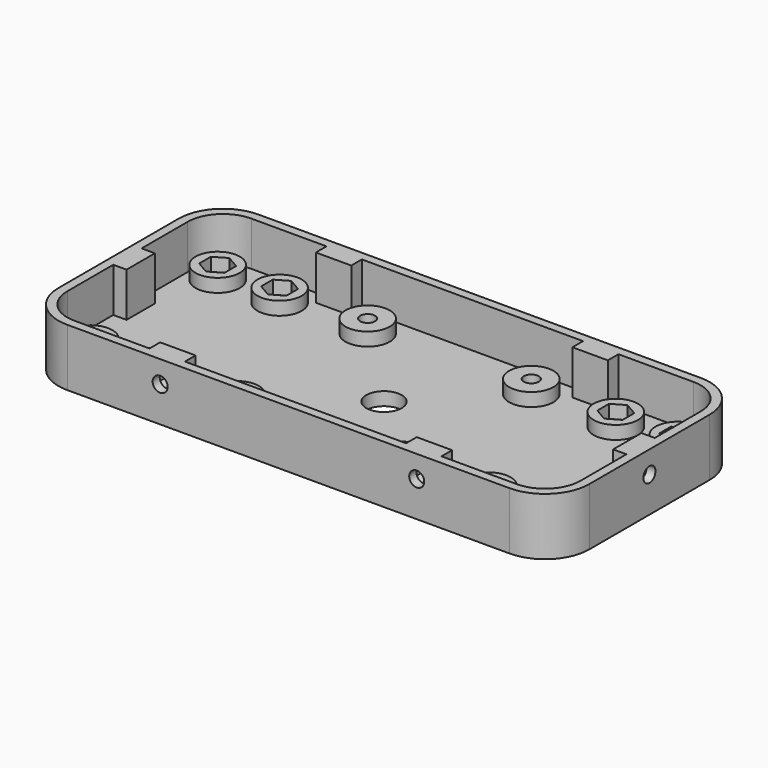
from build123d import *

# Parameters (mm, degrees)
PAD_DEPTH       = 3
PAD001_DEPTH    = 10
SKETCH002_R     = 5
PAD002_DEPTH    = 3
POCKET_DEPTH    = 3
SKETCH004_R     = 1.7
POCKET001_DEPTH = 3
SKETCH005_R     = 5
PAD003_DEPTH    = 3
SKETCH006_R     = 1.7
POCKET002_DEPTH = 2.8
POCKET003_DEPTH = 3
SKETCH008_R     = 4
POCKET004_DEPTH = 3
POCKET005_DEPTH = 3
SKETCH010_R     = 1.7
POCKET006_DEPTH = 3
POCKET007_DEPTH = 3
SKETCH012_R     = 1.7
POCKET008_DEPTH = 3
POCKET009_DEPTH = 3
SKETCH014_R     = 1.7
POCKET010_DEPTH = 3
POCKET011_DEPTH = 3
SKETCH016_R     = 1.7
POCKET012_DEPTH = 3


with BuildPart() as part:
    # Sketch → Pad (new body)
    with BuildSketch(Plane.XY):
        with BuildLine():
            ThreePointArc((0, 10), (2.928932, 2.928932), (10, 0))
            Line((110, 0), (10, 0))
            ThreePointArc((110, 0), (117.071068, 2.928932), (120, 10))
            Line((120, 44), (120, 10))
            ThreePointArc((120, 44), (117.071068, 51.071068), (110, 54))
            Line((10, 54), (110, 54))
            ThreePointArc((10, 54), (2.928932, 51.071068), (0, 44))
            Line((0, 10), (0, 44))
        make_face()
    extrude(amount=PAD_DEPTH)

    # Sketch001 → Pad001 (new body)
    with BuildSketch(Plane.XY.offset(3)):
        with BuildLine():
            ThreePointArc((0, 10), (2.928932, 2.928932), (10, 0))
            Line((110, 0), (10, 0))
            ThreePointArc((110, 0), (117.071068, 2.928932), (120, 10))
            Line((120, 44), (120, 10))
            ThreePointArc((120, 44), (117.071068, 51.071068), (110, 54))
            Line((10, 54), (110, 54))
            ThreePointArc((10, 54), (2.928932, 51.071068), (0, 44))
            Line((0, 10), (0, 44))
        make_face()
        with BuildLine():
            ThreePointArc((10, 52), (4.343146, 49.656854), (2, 44))
            Line((2, 44), (2, 31))
            Line((2, 31), (5, 31))
            Line((5, 31), (5, 23))
            Line((5, 23), (2, 23))
            Line((2, 23), (2, 10))
            ThreePointArc((2, 10), (4.343146, 4.343146), (10, 2))
            Line((10, 2), (27, 2))
            Line((27, 2), (27, 5))
            Line((27, 5), (35, 5))
            Line((35, 5), (35, 2))
            Line((35, 2), (85, 2))
            Line((85, 2), (85, 5))
            Line((85, 5), (93, 5))
            Line((93, 5), (93, 2))
            Line((93, 2), (110, 2))
            ThreePointArc((110, 2), (115.656854, 4.343146), (118, 10))
            Line((118, 23), (118, 10))
            Line((115, 23), (118, 23))
            Line((115, 31), (115, 23))
            Line((118, 31), (115, 31))
            Line((118, 44), (118, 31))
            ThreePointArc((118, 44), (115.656854, 49.656854), (110, 52))
            Line((93, 52), (110, 52))
            Line((93, 49), (93, 52))
            Line((85, 49), (93, 49))
            Line((85, 52), (85, 49))
            Line((35, 52), (85, 52))
            Line((35, 49), (35, 52))
            Line((27, 49), (35, 49))
            Line((27, 52), (27, 49))
            Line((10, 52), (27, 52))
        make_face(mode=Mode.SUBTRACT)
    extrude(amount=PAD001_DEPTH)

    # Sketch002 → Pad002 (new body)
    with BuildSketch(Plane.XY.offset(3)):
        with Locations((8, 45)):
            Circle(SKETCH002_R)
        with Locations((22, 45)):
            Circle(SKETCH002_R)
        with Locations((8, 9)):
            Circle(SKETCH002_R)
        with Locations((22, 9)):
            Circle(SKETCH002_R)
        with Locations((98, 45)):
            Circle(SKETCH002_R)
        with Locations((112, 45)):
            Circle(SKETCH002_R)
        with Locations((98, 9)):
            Circle(SKETCH002_R)
        with Locations((112, 9)):
            Circle(SKETCH002_R)
    extrude(amount=PAD002_DEPTH)

    # Sketch003 → Pocket (cut)
    with BuildSketch(Plane.XY.offset(6)):
        Polygon((10.857884, 43.35), (10.857884, 46.65), (8, 48.3), (5.142116, 46.65), (5.142116, 43.35), (8, 41.7), align=None)
        Polygon((24.857884, 43.35), (24.857884, 46.65), (22, 48.3), (19.142116, 46.65), (19.142116, 43.35), (22, 41.7), align=None)
        Polygon((10.857884, 7.35), (10.857884, 10.65), (8, 12.3), (5.142116, 10.65), (5.142116, 7.35), (8, 5.7), align=None)
        Polygon((22, 5.7), (24.857884, 7.35), (24.857884, 10.65), (22, 12.3), (19.142116, 10.65), (19.142116, 7.35), align=None)
        Polygon((95.142116, 46.65), (95.142116, 43.35), (98, 41.7), (100.857884, 43.35), (100.857884, 46.65), (98, 48.3), align=None)
        Polygon((109.142116, 43.35), (112, 41.7), (114.857884, 43.35), (114.857884, 46.65), (112, 48.3), (109.142116, 46.65), align=None)
        Polygon((112, 5.7), (114.857884, 7.35), (114.857884, 10.65), (112, 12.3), (109.142116, 10.65), (109.142116, 7.35), align=None)
        Polygon((95.142116, 7.35), (98, 5.7), (100.857884, 7.35), (100.857884, 10.65), (98, 12.3), (95.142116, 10.65), align=None)
    extrude(amount=-POCKET_DEPTH, mode=Mode.SUBTRACT)

    # Sketch004 → Pocket001 (cut)
    with BuildSketch(Plane.XY.offset(3)):
        with Locations((8, 45)):
            Circle(SKETCH004_R)
        with Locations((22, 45)):
            Circle(SKETCH004_R)
        with Locations((8, 9)):
            Circle(SKETCH004_R)
        with Locations((22, 9)):
            Circle(SKETCH004_R)
        with Locations((98, 45)):
            Circle(SKETCH004_R)
        with Locations((112, 45)):
            Circle(SKETCH004_R)
        with Locations((98, 9)):
            Circle(SKETCH004_R)
        with Locations((112, 9)):
            Circle(SKETCH004_R)
    extrude(amount=-POCKET001_DEPTH, mode=Mode.SUBTRACT)

    # Sketch005 → Pad003 (new body)
    with BuildSketch(Plane.XY.offset(3)):
        with Locations((41.5, 45.5)):
            Circle(SKETCH005_R)
        with Locations((78.5, 45.5)):
            Circle(SKETCH005_R)
        with Locations((78.5, 8.5)):
            Circle(SKETCH005_R)
        with Locations((41.5, 8.5)):
            Circle(SKETCH005_R)
    extrude(amount=PAD003_DEPTH)

    # Sketch006 → Pocket002 (cut)
    with BuildSketch(Plane.XY.offset(6)):
        with Locations((41.5, 45.5)):
            Circle(SKETCH006_R)
        with Locations((78.5, 45.5)):
            Circle(SKETCH006_R)
        with Locations((78.5, 8.5)):
            Circle(SKETCH006_R)
        with Locations((41.5, 8.5)):
            Circle(SKETCH006_R)
    extrude(amount=-POCKET002_DEPTH, mode=Mode.SUBTRACT)

    # Sketch007 → Pocket003 (cut)
    with BuildSketch(Plane(origin=(0, 0, 0), x_dir=(1, 0, 0), z_dir=(0, 0, -1))):
        Polygon((44.357884, -10.15), (44.357884, -6.85), (41.5, -5.2), (38.642116, -6.85), (38.642116, -10.15), (41.5, -11.8), align=None)
        Polygon((81.357884, -10.15), (81.357884, -6.85), (78.5, -5.2), (75.642116, -6.85), (75.642116, -10.15), (78.5, -11.8), align=None)
        Polygon((81.357884, -43.85), (78.5, -42.2), (75.642116, -43.85), (75.642116, -47.15), (78.5, -48.8), (81.357884, -47.15), align=None)
        Polygon((44.357884, -43.85), (41.5, -42.2), (38.642116, -43.85), (38.642116, -47.15), (41.5, -48.8), (44.357884, -47.15), align=None)
    extrude(amount=-POCKET003_DEPTH, mode=Mode.SUBTRACT)

    # Sketch008 → Pocket004 (cut)
    with BuildSketch(Plane.XY.offset(3)):
        with Locations((60, 27)):
            Circle(SKETCH008_R)
    extrude(amount=-POCKET004_DEPTH, mode=Mode.SUBTRACT)

    # Sketch009 → Pocket005 (cut)
    with BuildSketch(Plane(origin=(0, 31, 0), x_dir=(-1, 0, 0), z_dir=(0, 1, 0))):
        Polygon((33.598076, 9.5), (31, 11), (28.401924, 9.5), (28.401924, 6.5), (31, 5), (33.598076, 6.5), align=None)
        Polygon((91.598076, 9.5), (89, 11), (86.401924, 9.5), (86.401924, 6.5), (89, 5), (91.598076, 6.5), align=None)
    extrude(amount=-POCKET005_DEPTH, mode=Mode.SUBTRACT)

    # Sketch010 → Pocket006 (cut)
    with BuildSketch(Plane.XZ.offset(-52)):
        with Locations((31, 8)):
            Circle(SKETCH010_R)
        with Locations((89, 8)):
            Circle(SKETCH010_R)
    extrude(amount=-POCKET006_DEPTH, mode=Mode.SUBTRACT)

    # Sketch011 → Pocket007 (cut)
    with BuildSketch(Plane(origin=(0, 5, 0), x_dir=(-1, 0, 0), z_dir=(0, 1, 0))):
        Polygon((-86.401924, 9.5), (-89, 11), (-91.598076, 9.5), (-91.598076, 6.5), (-89, 5), (-86.401924, 6.5), align=None)
        Polygon((-28.401924, 9.5), (-31, 11), (-33.598076, 9.5), (-33.598076, 6.5), (-31, 5), (-28.401924, 6.5), align=None)
    extrude(amount=-POCKET007_DEPTH, mode=Mode.SUBTRACT)

    # Sketch012 → Pocket008 (cut)
    with BuildSketch(Plane(origin=(0, 2, 0), x_dir=(-1, 0, 0), z_dir=(0, 1, 0))):
        with Locations((-89, 8)):
            Circle(SKETCH012_R)
        with Locations((-31, 8)):
            Circle(SKETCH012_R)
    extrude(amount=-POCKET008_DEPTH, mode=Mode.SUBTRACT)

    # Sketch013 → Pocket009 (cut)
    with BuildSketch(Plane(origin=(115, 0, 0), x_dir=(0, -1, 0), z_dir=(-1, 0, 0))):
        Polygon((-24.401924, 6.5), (-24.401924, 9.5), (-27, 11), (-29.598076, 9.5), (-29.598076, 6.5), (-27, 5), align=None)
    extrude(amount=-POCKET009_DEPTH, mode=Mode.SUBTRACT)

    # Sketch014 → Pocket010 (cut)
    with BuildSketch(Plane(origin=(118, 0, 0), x_dir=(0, -1, 0), z_dir=(-1, 0, 0))):
        with Locations((-27, 8)):
            Circle(SKETCH014_R)
    extrude(amount=-POCKET010_DEPTH, mode=Mode.SUBTRACT)

    # Sketch015 → Pocket011 (cut)
    with BuildSketch(Plane(origin=(85, 0, 0), x_dir=(0, -1, 0), z_dir=(-1, 0, 0))):
        Polygon((29.598076, 6.5), (29.598076, 9.5), (27, 11), (24.401924, 9.5), (24.401924, 6.5), (27, 5), align=None)
    extrude(amount=-POCKET011_DEPTH, mode=Mode.SUBTRACT)

    # Sketch016 → Pocket012 (cut)
    with BuildSketch(Plane.YZ.offset(2)):
        with Locations((27, 8)):
            Circle(SKETCH016_R)
    extrude(amount=-POCKET012_DEPTH, mode=Mode.SUBTRACT)


solid = part.part
